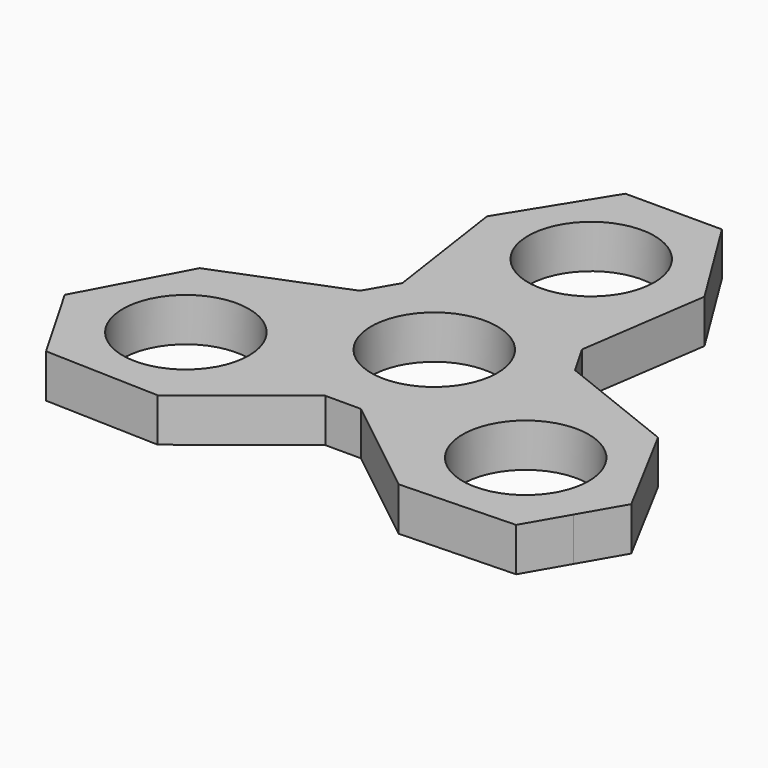
from build123d import *

# Parameters (mm, degrees)
F0_R     = 11.05
F1_DEPTH = 7.62


with BuildPart() as f1:
    # F0 (on Top) → F1 (new body)
    with BuildSketch(Plane.XY):
        Polygon((0, 52.410126), (-8.458121, 52.410126), (-19.045388, 35.357095), (-15.727155, 12.67334), (-18.839012, 7.283446), (-40.142837, -1.184758), (-49.617561, -18.880115), (-45.3885, -26.205063), (-41.15944, -33.53001), (-21.097449, -34.172338), (-3.111857, -19.956786), (3.111857, -19.956786), (21.097449, -34.172338), (41.15944, -33.53001), (45.3885, -26.205063), (49.617561, -18.880115), (40.142837, -1.184758), (18.839012, 7.283446), (15.727155, 12.67334), (19.045388, 35.357095), (8.458121, 52.410126), align=None)
        with Locations((-29.759655, -17.181745)):
            Circle(F0_R, mode=Mode.SUBTRACT)
        with Locations((29.759655, -17.181745)):
            Circle(F0_R, mode=Mode.SUBTRACT)
        Circle(F0_R, mode=Mode.SUBTRACT)
        with Locations((0, 34.363489)):
            Circle(F0_R, mode=Mode.SUBTRACT)
    extrude(amount=F1_DEPTH)


solid = f1.part
